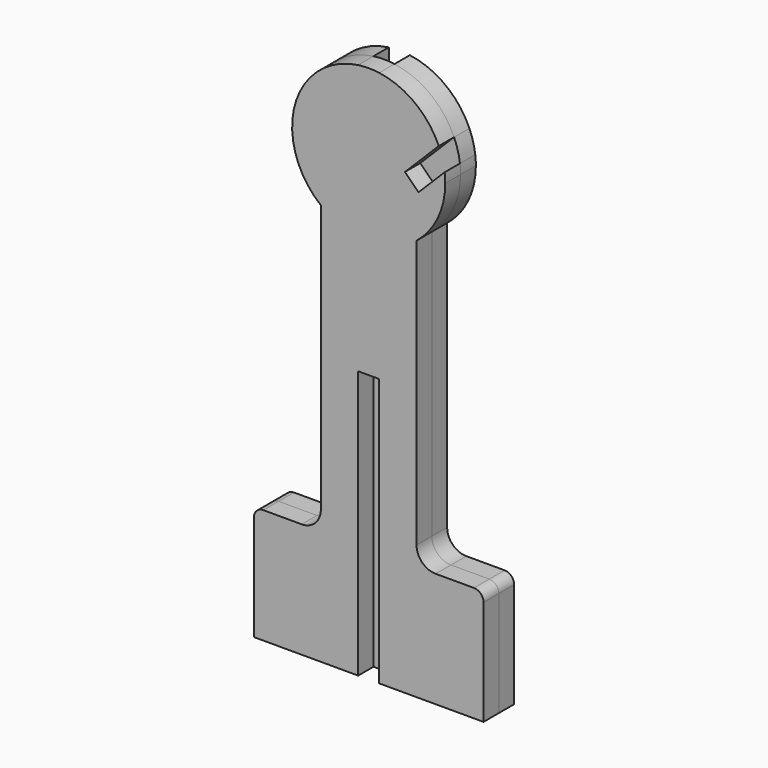
from build123d import *

# Parameters (mm, degrees)
F0_W     = 11
F0_H     = 70.8450606633
F1_DEPTH = 10
F0_H_2   = 60
F0_H_3   = 80
F2_DEPTH = 10


with BuildPart() as f1:
    # F0 (on Front) → F1 (new body)
    with BuildSketch(Plane.XZ):
        with BuildLine():
            Line((-5.5, 39.6200706713), (5.5, 39.6200706713))
            ThreePointArc((5.5, 39.6200706713), (0, 40), (-5.5, 39.6200706713))
        make_face()
        with BuildLine():
            Line((-25, -31.224989992), (-5.5, -31.224989992))
            Line((-5.5, -31.224989992), (-5.5, 39.6200706713))
            ThreePointArc((-5.5, 39.6200706713), (-38.5657640284, 10.6151705075), (-25, -31.224989992))
        make_face()
        with BuildLine():
            ThreePointArc((25, -31.224989992), (36.0555127546, -17.3205080757), (40, 0))
            ThreePointArc((40, 0), (39.9214903695, 2.5049165017), (39.686269666, 5))
            Line((39.686269666, 5), (26.0185417672, -8.6677278987))
            Line((26.0185417672, -8.6677278987), (18.9474739554, -1.5966600869))
            Line((18.9474739554, -1.5966600869), (36.625143485, 16.0810094428))
            ThreePointArc((36.625143485, 16.0810094428), (24.1278631314, 31.9037023041), (5.5, 39.6200706713))
            Line((5.5, 39.6200706713), (5.5, -31.224989992))
            Line((5.5, -31.224989992), (25, -31.224989992))
        make_face()
        with BuildLine():
            ThreePointArc((-25, -31.224989992), (-15.8171376963, -36.7398714627), (-5.5, -39.6200706713))
            Line((-5.5, -39.6200706713), (-5.5, -31.224989992))
            Line((-5.5, -31.224989992), (-25, -31.224989992))
        make_face()
        with BuildLine():
            ThreePointArc((5.5, -39.6200706713), (15.8171376963, -36.7398714627), (25, -31.224989992))
            Line((25, -31.224989992), (5.5, -31.224989992))
            Line((5.5, -31.224989992), (5.5, -39.6200706713))
        make_face()
        with BuildLine():
            Line((-5.5, -101.224989992), (-5.5, -39.6200706713))
            ThreePointArc((-5.5, -39.6200706713), (-15.8171376963, -36.7398714627), (-25, -31.224989992))
            Line((-25, -31.224989992), (-25, -171.224989992))
            ThreePointArc((-25, -171.224989992), (-27.9289321881, -178.2960578039), (-35, -181.224989992))
            Line((-35, -181.224989992), (-55, -181.224989992))
            ThreePointArc((-55, -181.224989992), (-58.5355339059, -182.6894560861), (-60, -186.224989992))
            Line((-60, -186.224989992), (-60, -241.224989992))
            Line((-60, -241.224989992), (-5.5, -241.224989992))
            Line((-5.5, -241.224989992), (-5.5, -181.224989992))
            Line((-5.5, -181.224989992), (-5.5, -101.224989992))
        make_face()
        with BuildLine():
            Line((25, -171.224989992), (25, -31.224989992))
            ThreePointArc((25, -31.224989992), (15.8171376963, -36.7398714627), (5.5, -39.6200706713))
            Line((5.5, -39.6200706713), (5.5, -101.224989992))
            Line((5.5, -101.224989992), (5.5, -181.224989992))
            Line((5.5, -181.224989992), (5.5, -241.224989992))
            Line((5.5, -241.224989992), (60, -241.224989992))
            Line((60, -241.224989992), (60, -186.224989992))
            ThreePointArc((60, -186.224989992), (58.5355339059, -182.6894560861), (55, -181.224989992))
            Line((55, -181.224989992), (35, -181.224989992))
            ThreePointArc((35, -181.224989992), (27.9289321881, -178.2960578039), (25, -171.224989992))
        make_face()
        with Locations((0, 4.1975403397)):
            Rectangle(F0_W, F0_H)
        with BuildLine():
            Line((5.5, -101.224989992), (5.5, -39.6200706713))
            ThreePointArc((5.5, -39.6200706713), (0, -40), (-5.5, -39.6200706713))
            Line((-5.5, -39.6200706713), (-5.5, -101.224989992))
            Line((-5.5, -101.224989992), (5.5, -101.224989992))
        make_face()
        with BuildLine():
            ThreePointArc((-5.5, -39.6200706713), (0, -40), (5.5, -39.6200706713))
            Line((5.5, -39.6200706713), (5.5, -31.224989992))
            Line((5.5, -31.224989992), (-5.5, -31.224989992))
            Line((-5.5, -31.224989992), (-5.5, -39.6200706713))
        make_face()
    extrude(amount=F1_DEPTH)


with BuildPart() as f2:
    # F0 (on Front) → F2 (new body)
    with BuildSketch(Plane.XZ):
        with BuildLine():
            ThreePointArc((25, -31.224989992), (36.0555127546, -17.3205080757), (40, 0))
            ThreePointArc((40, 0), (39.9214903695, 2.5049165017), (39.686269666, 5))
            Line((39.686269666, 5), (26.0185417672, -8.6677278987))
            Line((26.0185417672, -8.6677278987), (18.9474739554, -1.5966600869))
            Line((18.9474739554, -1.5966600869), (36.625143485, 16.0810094428))
            ThreePointArc((36.625143485, 16.0810094428), (24.1278631314, 31.9037023041), (5.5, 39.6200706713))
            Line((5.5, 39.6200706713), (5.5, -31.224989992))
            Line((5.5, -31.224989992), (25, -31.224989992))
        make_face()
        with BuildLine():
            Line((26.0185417672, -8.6677278987), (39.686269666, 5))
            ThreePointArc((39.686269666, 5), (38.5558703292, 10.6510498617), (36.625143485, 16.0810094428))
            Line((36.625143485, 16.0810094428), (18.9474739554, -1.5966600869))
            Line((18.9474739554, -1.5966600869), (26.0185417672, -8.6677278987))
        make_face()
        with BuildLine():
            Line((-25, -31.224989992), (-5.5, -31.224989992))
            Line((-5.5, -31.224989992), (-5.5, 39.6200706713))
            ThreePointArc((-5.5, 39.6200706713), (-38.5657640284, 10.6151705075), (-25, -31.224989992))
        make_face()
        with BuildLine():
            ThreePointArc((-25, -31.224989992), (-15.8171376963, -36.7398714627), (-5.5, -39.6200706713))
            Line((-5.5, -39.6200706713), (-5.5, -31.224989992))
            Line((-5.5, -31.224989992), (-25, -31.224989992))
        make_face()
        with BuildLine():
            ThreePointArc((5.5, -39.6200706713), (15.8171376963, -36.7398714627), (25, -31.224989992))
            Line((25, -31.224989992), (5.5, -31.224989992))
            Line((5.5, -31.224989992), (5.5, -39.6200706713))
        make_face()
        with BuildLine():
            Line((25, -171.224989992), (25, -31.224989992))
            ThreePointArc((25, -31.224989992), (15.8171376963, -36.7398714627), (5.5, -39.6200706713))
            Line((5.5, -39.6200706713), (5.5, -101.224989992))
            Line((5.5, -101.224989992), (5.5, -181.224989992))
            Line((5.5, -181.224989992), (5.5, -241.224989992))
            Line((5.5, -241.224989992), (60, -241.224989992))
            Line((60, -241.224989992), (60, -186.224989992))
            ThreePointArc((60, -186.224989992), (58.5355339059, -182.6894560861), (55, -181.224989992))
            Line((55, -181.224989992), (35, -181.224989992))
            ThreePointArc((35, -181.224989992), (27.9289321881, -178.2960578039), (25, -171.224989992))
        make_face()
        with BuildLine():
            Line((-5.5, -101.224989992), (-5.5, -39.6200706713))
            ThreePointArc((-5.5, -39.6200706713), (-15.8171376963, -36.7398714627), (-25, -31.224989992))
            Line((-25, -31.224989992), (-25, -171.224989992))
            ThreePointArc((-25, -171.224989992), (-27.9289321881, -178.2960578039), (-35, -181.224989992))
            Line((-35, -181.224989992), (-55, -181.224989992))
            ThreePointArc((-55, -181.224989992), (-58.5355339059, -182.6894560861), (-60, -186.224989992))
            Line((-60, -186.224989992), (-60, -241.224989992))
            Line((-60, -241.224989992), (-5.5, -241.224989992))
            Line((-5.5, -241.224989992), (-5.5, -181.224989992))
            Line((-5.5, -181.224989992), (-5.5, -101.224989992))
        make_face()
        with Locations((0, -211.224989992)):
            Rectangle(F0_W, F0_H_2)
        with Locations((0, -141.224989992)):
            Rectangle(F0_W, F0_H_3)
    extrude(amount=-F2_DEPTH)


solid = Compound([f1.part, f2.part])
